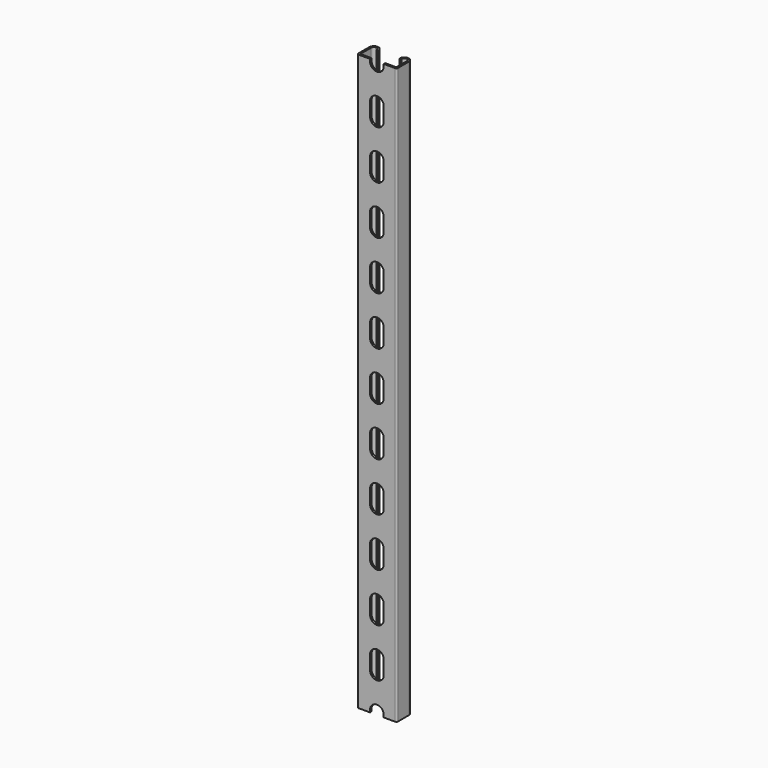
from build123d import *

# Parameters (mm, degrees)
PAD_DEPTH                    = 300
POCKET_DEPTH                 = 3
POCKET_LINEARPATTERN_2_DEPTH = 3
POCKET_LINEARPATTERN_3_DEPTH = 3
POCKET_LINEARPATTERN_4_DEPTH = 3
POCKET_LINEARPATTERN_5_DEPTH = 3
POCKET_LINEARPATTERN_6_DEPTH = 3
POCKET_LINEARPATTERN_7_DEPTH = 3
POCKET_LINEARPATTERN_8_DEPTH = 3


with BuildPart() as part:
    # Sketch → Pad (new body, symmetric)
    with BuildSketch(Plane.XY):
        with BuildLine():
            ThreePointArc((-11.1125, 15.8775), (-15.875, 20.64), (-20.6375, 15.8775))
            Line((-20.6375, 1.5), (-20.6375, 15.8775))
            ThreePointArc((-20.6375, 1.5), (-20.19816, 0.43934), (-19.1375, 0))
            Line((19.1375, 0), (-19.1375, 0))
            ThreePointArc((19.1375, 0), (20.19816, 0.43934), (20.6375, 1.5))
            Line((20.6375, 15.8775), (20.6375, 1.5))
            ThreePointArc((20.6375, 15.8775), (15.875, 20.64), (11.1125, 15.8775))
            Line((11.1125, 15.8775), (13.00988, 15.8775))
            ThreePointArc((18.74012, 15.8775), (15.875, 18.74262), (13.00988, 15.8775))
            Line((18.74012, 15.8775), (18.74012, 2.89738))
            ThreePointArc((17.74012, 1.89738), (18.447227, 2.190273), (18.74012, 2.89738))
            Line((17.74012, 1.89738), (-17.74012, 1.89738))
            ThreePointArc((-18.74012, 2.89738), (-18.447227, 2.190273), (-17.74012, 1.89738))
            Line((-18.74012, 2.89738), (-18.74012, 15.8775))
            ThreePointArc((-13.00988, 15.8775), (-15.875, 18.74262), (-18.74012, 15.8775))
            Line((-13.00988, 15.8775), (-11.1125, 15.8775))
        make_face()
    extrude(amount=PAD_DEPTH, both=True)

    # Sketch001 → Pocket (cut)
    with BuildSketch(Plane.XZ):
        with BuildLine():
            ThreePointArc((7.14375, 7.14125), (0, 14.285), (-7.14375, 7.14125))
            Line((-7.14375, 7.14125), (-7.14375, -7.14125))
            ThreePointArc((-7.14375, -7.14125), (0, -14.285), (7.14375, -7.14125))
            Line((7.14375, -7.14125), (7.14375, 7.14125))
        make_face()
    pocket = extrude(amount=-POCKET_DEPTH, mode=Mode.SUBTRACT)

    # Sketch001 LinearPattern 2 → Pocket LinearPattern 2 (cut)
    with BuildSketch(Plane(origin=(0, 0, 50.8), x_dir=(1, 0, 0), z_dir=(0, -1, 0))):
        with BuildLine():
            ThreePointArc((7.14375, 7.14125), (0, 14.285), (-7.14375, 7.14125))
            Line((-7.14375, 7.14125), (-7.14375, -7.14125))
            ThreePointArc((-7.14375, -7.14125), (0, -14.285), (7.14375, -7.14125))
            Line((7.14375, -7.14125), (7.14375, 7.14125))
        make_face()
    pocket_linearpattern_2 = extrude(amount=-POCKET_LINEARPATTERN_2_DEPTH, mode=Mode.SUBTRACT)

    # Sketch001 LinearPattern 3 → Pocket LinearPattern 3 (cut)
    with BuildSketch(Plane(origin=(0, 0, 101.6), x_dir=(1, 0, 0), z_dir=(0, -1, 0))):
        with BuildLine():
            ThreePointArc((7.14375, 7.14125), (0, 14.285), (-7.14375, 7.14125))
            Line((-7.14375, 7.14125), (-7.14375, -7.14125))
            ThreePointArc((-7.14375, -7.14125), (0, -14.285), (7.14375, -7.14125))
            Line((7.14375, -7.14125), (7.14375, 7.14125))
        make_face()
    pocket_linearpattern_3 = extrude(amount=-POCKET_LINEARPATTERN_3_DEPTH, mode=Mode.SUBTRACT)

    # Sketch001 LinearPattern 4 → Pocket LinearPattern 4 (cut)
    with BuildSketch(Plane(origin=(0, 0, 152.4), x_dir=(1, 0, 0), z_dir=(0, -1, 0))):
        with BuildLine():
            ThreePointArc((7.14375, 7.14125), (0, 14.285), (-7.14375, 7.14125))
            Line((-7.14375, 7.14125), (-7.14375, -7.14125))
            ThreePointArc((-7.14375, -7.14125), (0, -14.285), (7.14375, -7.14125))
            Line((7.14375, -7.14125), (7.14375, 7.14125))
        make_face()
    pocket_linearpattern_4 = extrude(amount=-POCKET_LINEARPATTERN_4_DEPTH, mode=Mode.SUBTRACT)

    # Sketch001 LinearPattern 5 → Pocket LinearPattern 5 (cut)
    with BuildSketch(Plane(origin=(0, 0, 203.2), x_dir=(1, 0, 0), z_dir=(0, -1, 0))):
        with BuildLine():
            ThreePointArc((7.14375, 7.14125), (0, 14.285), (-7.14375, 7.14125))
            Line((-7.14375, 7.14125), (-7.14375, -7.14125))
            ThreePointArc((-7.14375, -7.14125), (0, -14.285), (7.14375, -7.14125))
            Line((7.14375, -7.14125), (7.14375, 7.14125))
        make_face()
    pocket_linearpattern_5 = extrude(amount=-POCKET_LINEARPATTERN_5_DEPTH, mode=Mode.SUBTRACT)

    # Sketch001 LinearPattern 6 → Pocket LinearPattern 6 (cut)
    with BuildSketch(Plane(origin=(0, 0, 254), x_dir=(1, 0, 0), z_dir=(0, -1, 0))):
        with BuildLine():
            ThreePointArc((7.14375, 7.14125), (0, 14.285), (-7.14375, 7.14125))
            Line((-7.14375, 7.14125), (-7.14375, -7.14125))
            ThreePointArc((-7.14375, -7.14125), (0, -14.285), (7.14375, -7.14125))
            Line((7.14375, -7.14125), (7.14375, 7.14125))
        make_face()
    pocket_linearpattern_6 = extrude(amount=-POCKET_LINEARPATTERN_6_DEPTH, mode=Mode.SUBTRACT)

    # Sketch001 LinearPattern 7 → Pocket LinearPattern 7 (cut)
    with BuildSketch(Plane(origin=(0, 0, 304.8), x_dir=(1, 0, 0), z_dir=(0, -1, 0))):
        with BuildLine():
            ThreePointArc((7.14375, 7.14125), (0, 14.285), (-7.14375, 7.14125))
            Line((-7.14375, 7.14125), (-7.14375, -7.14125))
            ThreePointArc((-7.14375, -7.14125), (0, -14.285), (7.14375, -7.14125))
            Line((7.14375, -7.14125), (7.14375, 7.14125))
        make_face()
    pocket_linearpattern_7 = extrude(amount=-POCKET_LINEARPATTERN_7_DEPTH, mode=Mode.SUBTRACT)

    # Sketch001 LinearPattern 8 → Pocket LinearPattern 8 (cut)
    with BuildSketch(Plane(origin=(0, 0, 355.6), x_dir=(1, 0, 0), z_dir=(0, -1, 0))):
        with BuildLine():
            ThreePointArc((7.14375, 7.14125), (0, 14.285), (-7.14375, 7.14125))
            Line((-7.14375, 7.14125), (-7.14375, -7.14125))
            ThreePointArc((-7.14375, -7.14125), (0, -14.285), (7.14375, -7.14125))
            Line((7.14375, -7.14125), (7.14375, 7.14125))
        make_face()
    pocket_linearpattern_8 = extrude(amount=-POCKET_LINEARPATTERN_8_DEPTH, mode=Mode.SUBTRACT)

    # Mirrored: Pocket, Pocket LinearPattern 2, Pocket LinearPattern 3, Pocket LinearPattern 4, Pocket LinearPattern 5, Pocket LinearPattern 6, Pocket LinearPattern 7, Pocket LinearPattern 8 across Sketch001 H_Axis
    add(pocket.mirror(Plane(origin=(0, 0, 0), x_dir=(0, -1, 0), z_dir=(0, 0, 1))), mode=Mode.SUBTRACT)
    add(pocket_linearpattern_2.mirror(Plane(origin=(0, 0, 0), x_dir=(0, -1, 0), z_dir=(0, 0, 1))), mode=Mode.SUBTRACT)
    add(pocket_linearpattern_3.mirror(Plane(origin=(0, 0, 0), x_dir=(0, -1, 0), z_dir=(0, 0, 1))), mode=Mode.SUBTRACT)
    add(pocket_linearpattern_4.mirror(Plane(origin=(0, 0, 0), x_dir=(0, -1, 0), z_dir=(0, 0, 1))), mode=Mode.SUBTRACT)
    add(pocket_linearpattern_5.mirror(Plane(origin=(0, 0, 0), x_dir=(0, -1, 0), z_dir=(0, 0, 1))), mode=Mode.SUBTRACT)
    add(pocket_linearpattern_6.mirror(Plane(origin=(0, 0, 0), x_dir=(0, -1, 0), z_dir=(0, 0, 1))), mode=Mode.SUBTRACT)
    add(pocket_linearpattern_7.mirror(Plane(origin=(0, 0, 0), x_dir=(0, -1, 0), z_dir=(0, 0, 1))), mode=Mode.SUBTRACT)
    add(pocket_linearpattern_8.mirror(Plane(origin=(0, 0, 0), x_dir=(0, -1, 0), z_dir=(0, 0, 1))), mode=Mode.SUBTRACT)


solid = part.part
